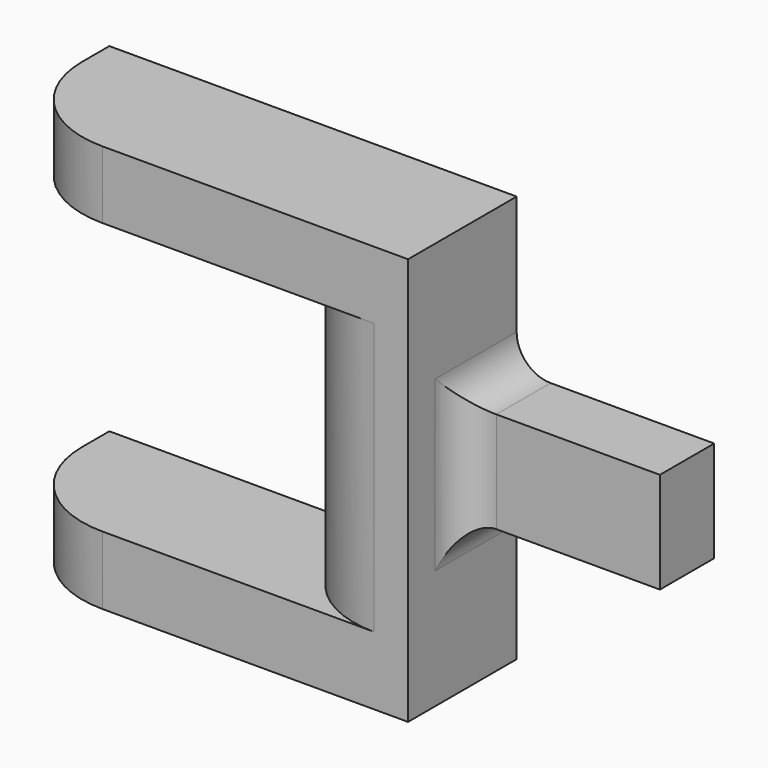
from build123d import *

# Parameters (mm, degrees)
F1_DEPTH = 20
F2_R     = 15
F3_W     = 30.964084
F3_H     = 14.88658
F4_DEPTH = 10
F5_R     = 5


with BuildPart() as f1:
    # F0 (on Front) → F1 (new body)
    with BuildSketch(Plane.XZ):
        Polygon((30, 30), (-30, 30), (-30, 20.051985), (10, 20.051985), (10, -19.948015), (-30, -19.948015), (-30, -30), (30, -30), align=None)
    extrude(amount=F1_DEPTH)

    # F2
    f2_edges = [f1.edges().sort_by_distance(p)[0] for p in [
        (10, -20, 0.051985),
        (-30, -20, -24.974007),
        (-30, -20, 25.025993),
    ]]
    fillet(f2_edges, radius=F2_R)

    # F3 (on Front) → F4 (join)
    with BuildSketch(Plane.XZ):
        with Locations((43.617677, 0)):
            Rectangle(F3_W, F3_H)
    extrude(amount=F4_DEPTH)

    # F5
    f5_edges = [f1.edges().sort_by_distance(p)[0] for p in [
        (30, -5, 7.44329),
        (30, -10, 0),
        (30, -5, -7.44329),
    ]]
    fillet(f5_edges, radius=F5_R)


solid = f1.part
